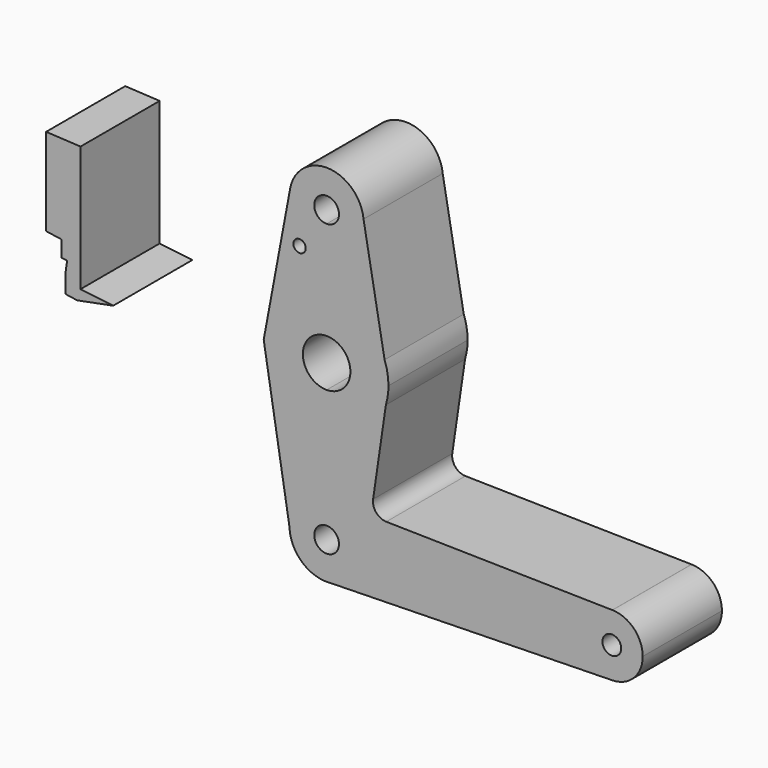
from build123d import *

# Parameters (mm, degrees)
F0_R     = 1.5875
F1_DEPTH = 25.4


with BuildPart() as f1:
    # F0 (on Front) → F1 (new body)
    with BuildSketch(Plane.XZ):
        with BuildLine():
            Line((-48.7479762085, 15.875), (-48.7479762085, 25.0759535181))
            ThreePointArc((-48.7479762085, 25.0759535181), (-42.0127841177, 27.8657614273), (-39.2229762085, 34.6009535181))
            ThreePointArc((-39.2229762085, 34.6009535181), (-39.2351541461, 35.0824526452), (-39.2716568193, 35.5627205562))
            ThreePointArc((-39.2716568193, 35.5627205562), (-48.3357779604, 44.117030315), (-58.1056381014, 36.3785330232))
            Line((-58.1056381014, 36.3785330232), (-64.3533481261, 2.9134159182))
            ThreePointArc((-64.3533481261, 2.9134159182), (-58.8910809427, 12.2120043953), (-48.7479762085, 15.875))
        make_face()
        with Locations((-55.6986369193, 24.1519454867)):
            Circle(F0_R, mode=Mode.SUBTRACT)
        with BuildLine():
            ThreePointArc((-45.5729762085, 34.6009535181), (-46.5029121782, 32.3558894879), (-48.7479762085, 31.4259535181))
            ThreePointArc((-48.7479762085, 31.4259535181), (-50.9930402387, 36.8460175484), (-45.5729762085, 34.6009535181))
        make_face(mode=Mode.SUBTRACT)
        with BuildLine():
            ThreePointArc((-39.2229762085, 34.6009535181), (-42.0127841177, 27.8657614273), (-48.7479762085, 25.0759535181))
            Line((-48.7479762085, 25.0759535181), (-48.7479762085, 15.875))
            ThreePointArc((-48.7479762085, 15.875), (-39.6878760333, 13.0357282043), (-33.868605703, 5.5335303704))
            Line((-33.868605703, 5.5335303704), (-39.2716568193, 35.5627205562))
            ThreePointArc((-39.2716568193, 35.5627205562), (-39.2351541461, 35.0824526452), (-39.2229762085, 34.6009535181))
        make_face()
        with BuildLine():
            ThreePointArc((32.3961796028, -39.933275998), (30.1309037702, -34.3808189523), (24.6280462499, -31.9975831367))
            ThreePointArc((24.6280462499, -31.9975831367), (18.9062225571, -34.2610518306), (16.5211796028, -39.933275998))
            ThreePointArc((16.5211796028, -39.933275998), (18.9062225571, -45.6055001655), (24.6280462499, -47.8689688593))
            ThreePointArc((24.6280462499, -47.8689688593), (30.1309037702, -45.4857330437), (32.3961796028, -39.933275998))
        make_face()
        with BuildLine():
            ThreePointArc((26.8716796028, -39.933275998), (24.4586796028, -42.346275998), (22.0456796028, -39.933275998))
            ThreePointArc((22.0456796028, -39.933275998), (24.4586796028, -37.520275998), (26.8716796028, -39.933275998))
        make_face(mode=Mode.SUBTRACT)
        with BuildLine():
            ThreePointArc((-33.868605703, 5.5335303704), (-39.6878760333, 13.0357282043), (-48.7479762085, 15.875))
            Line((-48.7479762085, 15.875), (-48.7479762085, 6.1011248599))
            ThreePointArc((-48.7479762085, 6.1011248599), (-44.4338294471, 4.3141467613), (-42.6468513485, 0))
            ThreePointArc((-42.6468513485, 0), (-44.4338294471, -4.3141467613), (-48.7479762085, -6.1011248599))
            Line((-48.7479762085, -6.1011248599), (-48.7479762085, -15.875))
            ThreePointArc((-48.7479762085, -15.875), (-39.2684774176, -12.7339988878), (-33.5401743742, -4.5539420692))
            Line((-33.5401743742, -4.5539420692), (-32.8729762085, 0))
            Line((-32.8729762085, 0), (-33.868605703, 5.5335303704))
        make_face()
        with BuildLine():
            Line((-48.7479762085, 6.1011248599), (-48.7479762085, 15.875))
            ThreePointArc((-48.7479762085, 15.875), (-58.8910809427, 12.2120043953), (-64.3533481261, 2.9134159182))
            ThreePointArc((-64.3533481261, 2.9134159182), (-60.9599806037, -10.1431047342), (-48.7479762085, -15.875))
            Line((-48.7479762085, -15.875), (-48.7479762085, -6.1011248599))
            ThreePointArc((-48.7479762085, -6.1011248599), (-54.8491010684, 0), (-48.7479762085, 6.1011248599))
        make_face()
        with BuildLine():
            ThreePointArc((-32.8729762085, 0), (-33.1238661254, 2.8111935388), (-33.868605703, 5.5335303704))
            Line((-33.868605703, 5.5335303704), (-32.8729762085, 0))
        make_face()
        with BuildLine():
            ThreePointArc((-48.7479762085, -15.875), (-60.9599806037, -10.1431047342), (-64.3533481261, 2.9134159182))
            Line((-64.3533481261, 2.9134159182), (-64.8972630863, 0))
            Line((-64.8972630863, 0), (-58.2675205403, -40.2556123347))
            ThreePointArc((-58.2675205403, -40.2556123347), (-55.5961832222, -33.3130278383), (-48.7479762085, -30.408275998))
            Line((-48.7479762085, -30.408275998), (-48.7479762085, -15.875))
        make_face()
        with BuildLine():
            ThreePointArc((-33.5401743742, -4.5539420692), (-33.040661366, -2.3012790879), (-32.8729762085, 0))
            Line((-32.8729762085, 0), (-33.5401743742, -4.5539420692))
        make_face()
        with BuildLine():
            ThreePointArc((-33.5401743742, -4.5539420692), (-39.2684774176, -12.7339988878), (-48.7479762085, -15.875))
            Line((-48.7479762085, -15.875), (-48.7479762085, -30.408275998))
            ThreePointArc((-48.7479762085, -30.408275998), (-42.0127841177, -33.1980839072), (-39.2229762085, -39.933275998))
            Line((-39.2229762085, -39.933275998), (0, -39.933275998))
            Line((0, -39.933275998), (16.5211796028, -39.933275998))
            ThreePointArc((16.5211796028, -39.933275998), (18.9062225571, -34.2610518306), (24.6280462499, -31.9975831367))
            Line((24.6280462499, -31.9975831367), (-33.439859048, -30.9074510217))
            ThreePointArc((-33.439859048, -30.9074510217), (-36.0286846217, -29.6787172746), (-36.8175862871, -26.923823695))
            Line((-36.8175862871, -26.923823695), (-33.5401743742, -4.5539420692))
        make_face()
        with BuildLine():
            Line((-48.7479762085, -36.758275998), (-48.7479762085, -30.408275998))
            ThreePointArc((-48.7479762085, -30.408275998), (-55.5961832222, -33.3130278383), (-58.2675205403, -40.2556123347))
            Line((-58.2675205403, -40.2556123347), (-57.8681248462, -42.6807318806))
            ThreePointArc((-57.8681248462, -42.6807318806), (-54.6253586488, -47.4287413372), (-49.2409579456, -49.4455099106))
            Line((-49.2409579456, -49.4455099106), (-47.849600631, -49.415815021))
            ThreePointArc((-47.849600631, -49.415815021), (-41.7023161125, -46.3429794867), (-39.2229762085, -39.933275998))
            Line((-39.2229762085, -39.933275998), (-45.5729762085, -39.933275998))
            ThreePointArc((-45.5729762085, -39.933275998), (-50.9930402387, -42.1783400283), (-48.7479762085, -36.758275998))
        make_face()
        with BuildLine():
            Line((-57.8681248462, -42.6807318806), (-58.2675205403, -40.2556123347))
            ThreePointArc((-58.2675205403, -40.2556123347), (-58.1463718004, -41.4811084494), (-57.8681248462, -42.6807318806))
        make_face()
        with BuildLine():
            Line((0, -39.933275998), (-39.2229762085, -39.933275998))
            ThreePointArc((-39.2229762085, -39.933275998), (-41.7023161125, -46.3429794867), (-47.849600631, -49.415815021))
            Line((-47.849600631, -49.415815021), (24.6280462499, -47.8689688593))
            ThreePointArc((24.6280462499, -47.8689688593), (18.9062225571, -45.6055001655), (16.5211796028, -39.933275998))
            Line((16.5211796028, -39.933275998), (0, -39.933275998))
        make_face()
        with BuildLine():
            ThreePointArc((-49.2409579456, -49.4455099106), (-48.5447362319, -49.4561074316), (-47.849600631, -49.415815021))
            Line((-47.849600631, -49.415815021), (-49.2409579456, -49.4455099106))
        make_face()
        with BuildLine():
            ThreePointArc((-39.2229762085, -39.933275998), (-42.0127841177, -33.1980839072), (-48.7479762085, -30.408275998))
            Line((-48.7479762085, -30.408275998), (-48.7479762085, -36.758275998))
            ThreePointArc((-48.7479762085, -36.758275998), (-46.5029121782, -37.6882119678), (-45.5729762085, -39.933275998))
            Line((-45.5729762085, -39.933275998), (-39.2229762085, -39.933275998))
        make_face()
    extrude(amount=F1_DEPTH)


with BuildPart() as f1b:
    # F0 (on Front) → F1, piece 2 (new body)
    with BuildSketch(Plane.XZ):
        Polygon((-103.5294681787, -4.88598831), (-111.9208484888, -3.879686119), (-111.9208484888, 28.3432696015), (-120.7569746237, 28.802070892), (-120.7569746237, 6.3570477068), (-116.7737345093, 5.7734630987), (-116.7737345093, 3.5043251701), (-116.7737345093, 1.6582227545), (-115.3555769193, 1.4504484507), (-115.8347137636, -1.819886428), (-115.8347137636, -6.2295896932), (-112.7533720893, -6.6810371385), align=None)
    extrude(amount=F1_DEPTH)


solid = Compound([f1.part, f1b.part])
